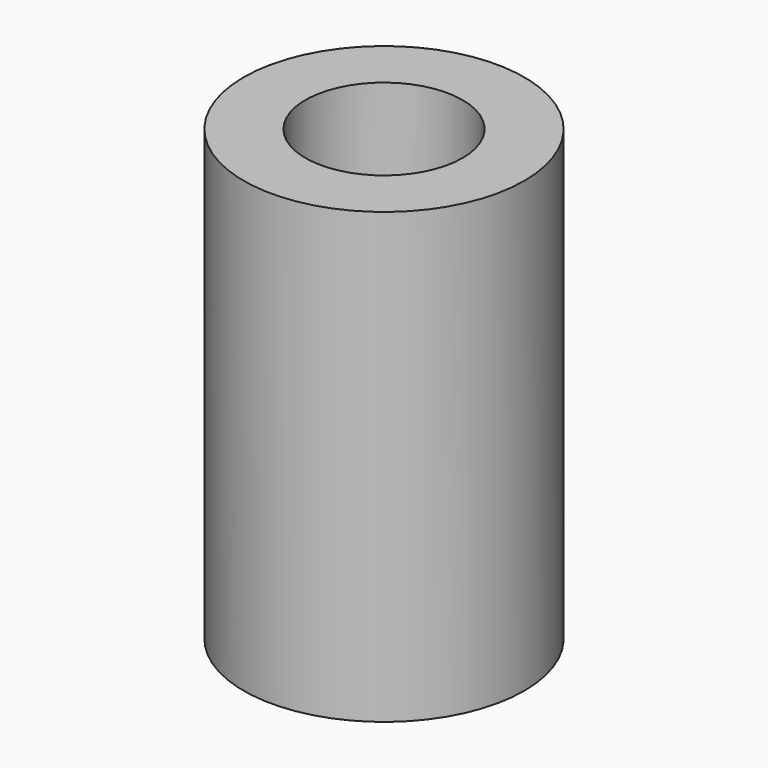
from build123d import *

# Parameters (mm, degrees)
F0_R     = 12.5
F0_R_2   = 7
F1_DEPTH = 40
F2_DEPTH = 15


with BuildPart() as f1:
    # F0 (on Top) → F1 (new body)
    with BuildSketch(Plane.XY):
        Circle(F0_R)
        Circle(F0_R_2, mode=Mode.SUBTRACT)
    extrude(amount=F1_DEPTH)

    # F0 (on Top) → F2 (join)
    with BuildSketch(Plane.XY):
        Circle(F0_R_2)
        with BuildLine():
            ThreePointArc((1.658312, 2.5), (2.643382, 1.418637), (3, 0))
            ThreePointArc((3, 0), (-1.418637, -2.643382), (-1.658312, 2.5))
            ThreePointArc((-1.658312, 2.5), (0, 3), (1.658312, 2.5))
        make_face(mode=Mode.SUBTRACT)
        with BuildLine():
            Line((-1.658312, 2.5), (1.658312, 2.5))
            ThreePointArc((1.658312, 2.5), (0, 3), (-1.658312, 2.5))
        make_face()
    extrude(amount=F2_DEPTH)


solid = f1.part
